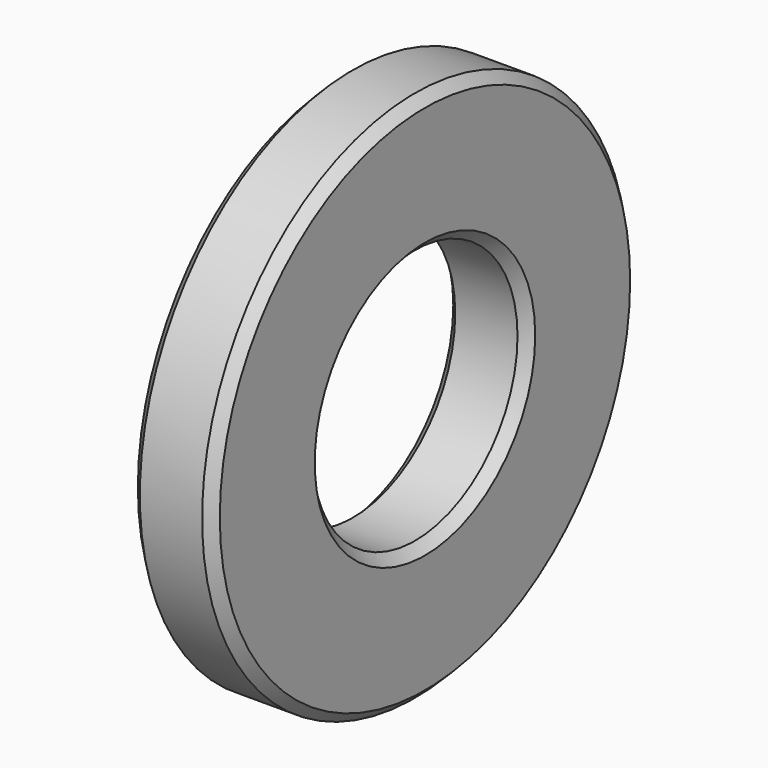
from build123d import *

# Parameters (mm, degrees)
F0_R     = 20.6375
F0_R_2   = 9.9187
F1_DEPTH = 6.35
F2_SIZE  = 0.762


with BuildPart() as f1:
    # F0 (on Right) → F1 (new body)
    with BuildSketch(Plane.YZ):
        Circle(F0_R)
        Circle(F0_R_2, mode=Mode.SUBTRACT)
    extrude(amount=-F1_DEPTH)

    # F2
    f2_edges = [f1.edges().sort_by_distance(p)[0] for p in [
        (0, -20.6375, 0),
        (-6.35, -20.6375, 0),
        (0, -9.9187, 0),
        (-6.35, -9.9187, 0),
    ]]
    chamfer(f2_edges, length=F2_SIZE)


solid = f1.part
